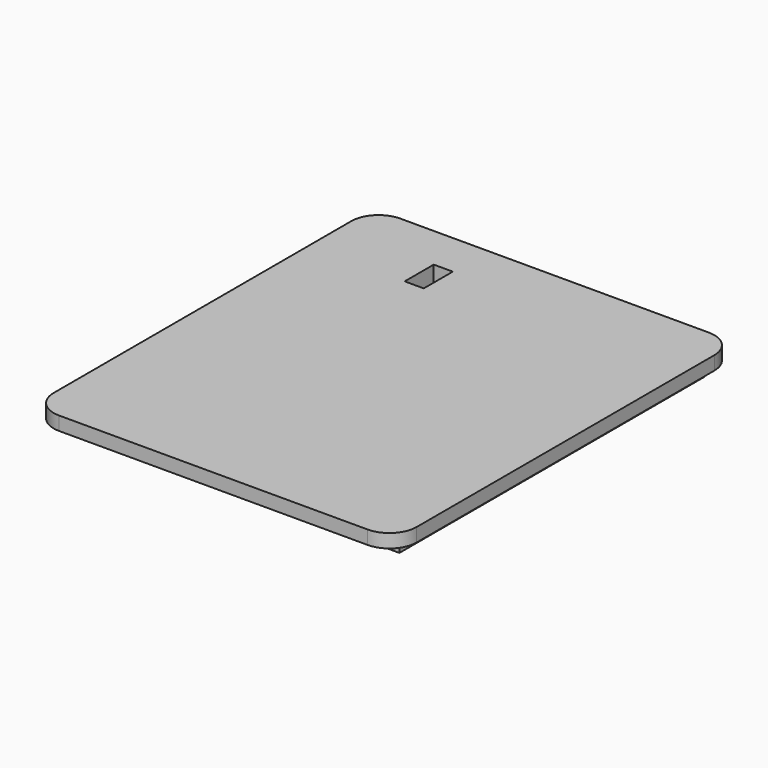
from build123d import *

# Parameters (mm, degrees)
F1_DEPTH = 1.5
F2_W     = 37
F2_H     = 42
F3_DEPTH = 1.3
F4_W     = 2.1
F4_H     = 4
F5_DEPTH = 5.05


with BuildPart() as f1:
    # F0 (on Top) → F1 (new body)
    with BuildSketch(Plane.XY):
        with BuildLine():
            Line((17, 23.5), (-17, 23.5))
            ThreePointArc((-17, 23.5), (-19.12132, 22.62132), (-20, 20.5))
            Line((-20, 20.5), (-20, -20.5))
            ThreePointArc((-20, -20.5), (-19.12132, -22.62132), (-17, -23.5))
            Line((-17, -23.5), (17, -23.5))
            ThreePointArc((17, -23.5), (19.12132, -22.62132), (20, -20.5))
            Line((20, -20.5), (20, 20.5))
            ThreePointArc((20, 20.5), (19.12132, 22.62132), (17, 23.5))
        make_face()
    extrude(amount=F1_DEPTH)

    # F2 (on Top) → F3 (join)
    with BuildSketch(Plane.XY):
        Rectangle(F2_W, F2_H)
    extrude(amount=-F3_DEPTH)

    # F4 (on Top) → F5 (cut, symmetric)
    with BuildSketch(Plane.XY):
        with Locations((-8.35, 16.6)):
            Rectangle(F4_W, F4_H)
    extrude(amount=F5_DEPTH, both=True, mode=Mode.SUBTRACT)


solid = f1.part
